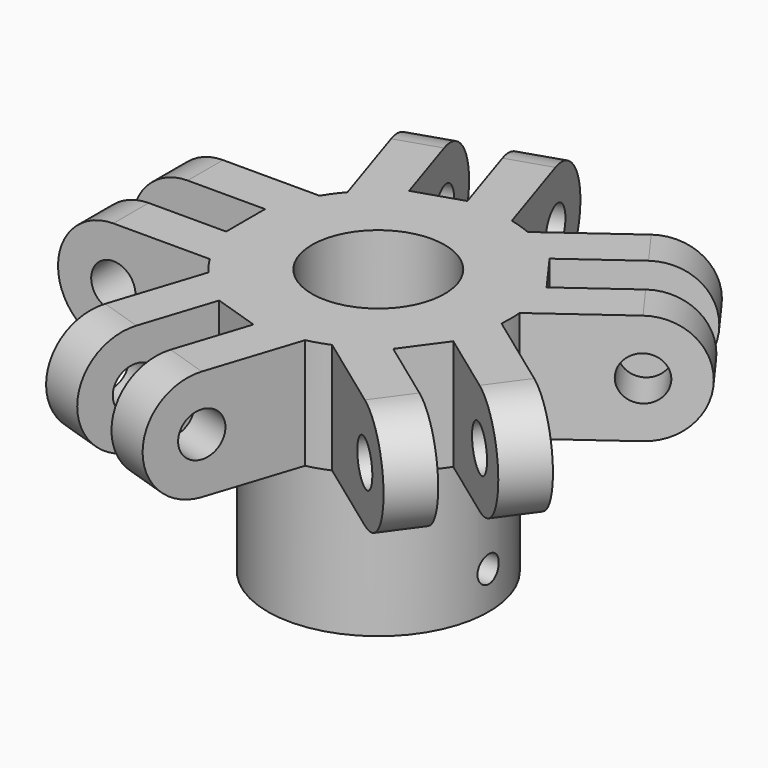
from build123d import *

# Parameters (mm, degrees)
F3_DEPTH       = 3.1
F4_R           = 1
F5_DEPTH       = 9.101
F6_W           = 7
F6_H           = 2.2
F7_DEPTH       = 25
F8_COUNT       = 5
F9_R           = 0.6
F10_DEPTH      = 12.001
F10_DEPTH_BACK = 11.5313382146


with BuildPart() as f1:
    # F0 (on Front) → F1 (revolve)
    with BuildSketch(Plane.XZ):
        Polygon((-3, -7), (-3, 5), (-6, 5), (-6, 0), (-5, 0), (-5, -7), align=None)
    revolve(axis=Axis((0, 0, -4.9457359128), (0, 0, -1)))

    # F2 (on Front) → F3 (join, symmetric)
    with BuildSketch(Plane.XZ):
        with BuildLine():
            ThreePointArc((-7, 2.5), (-7.732233047, 4.267766953), (-9.5, 5))
            ThreePointArc((-9.5, 5), (-12, 2.5), (-9.5, 0))
            ThreePointArc((-9.5, 0), (-7.732233047, 0.732233047), (-7, 2.5))
        make_face()
        with BuildLine():
            Line((-5, 5), (-9.5, 5))
            ThreePointArc((-9.5, 5), (-7.732233047, 4.267766953), (-7, 2.5))
            ThreePointArc((-7, 2.5), (-7.732233047, 0.732233047), (-9.5, 0))
            Line((-9.5, 0), (-5, 0))
            Line((-5, 0), (-5, 5))
        make_face()
    extrude(amount=F3_DEPTH, both=True)

    # F4 (on face) → F5 (cut, through all)
    with BuildSketch(Plane.XZ.offset(3.1)):
        with Locations((-9.5, 2.5)):
            Circle(F4_R)
    extrude(amount=-F5_DEPTH, mode=Mode.SUBTRACT)

    # F6 (on face) → F7 (cut)
    with BuildSketch(Plane.XY.offset(5)):
        with Locations((-9.5, 0)):
            Rectangle(F6_W, F6_H)
    extrude(amount=-F7_DEPTH, mode=Mode.SUBTRACT)

    # F8: F1 ×5 about axis
    f8_axis = Axis((0, 0, -7), (0, 0, 1))


with BuildPart() as f1_1:
    add(f1.part)
    for i in range(1, F8_COUNT):
        add(f1.part.rotate(f8_axis, i * 360 / F8_COUNT))

    # F9 (on Right) → F10 (cut, two sides)
    with BuildSketch(Plane.YZ) as f10_sk:
        with Locations((0, -1.7)):
            Circle(F9_R)
        with Locations((0, -5.3)):
            Circle(F9_R)
    extrude(amount=-F10_DEPTH, mode=Mode.SUBTRACT)
    extrude(f10_sk.sketch, amount=F10_DEPTH_BACK, mode=Mode.SUBTRACT)


solid = f1_1.part
